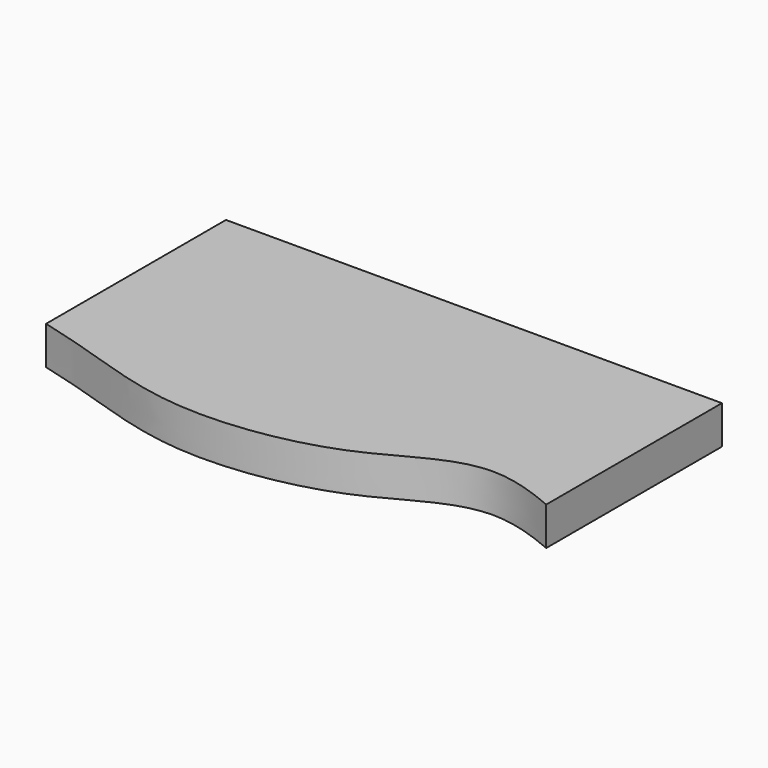
from build123d import *

# Parameters (mm, degrees)
F1_DEPTH = 10.4


with BuildPart() as f1:
    # F0 (on Top) → F1 (new body)
    with BuildSketch(Plane.XY):
        with BuildLine():
            Line((66.4654895667, 42.1201065164), (-68.1696608659, 42.1201065164))
            Line((-68.1696608659, 42.1201065164), (-68.1696608659, -18.9146162553))
            add(Edge.make_bspline(
                [(-68.1696608659, -18.9146162553), (-62.1553218982, -20.4632070983), (-49.0058058525, -24.3826323424), (-22.4658243192, -33.7597719285), (20.5863967698, -27.2223625794), (42.3506180777, -8.8015285529), (60.6282336315, -14.9547688521), (66.4654895667, -17.5115943508)],
                knots=[0.0743311664, 0.0743311664, 0.0743311664, 0.0743311664, 0.1900928182, 0.3795425183, 0.6028285228, 0.7961233901, 0.8973940603, 0.8973940603, 0.8973940603, 0.8973940603], degree=3))
            Line((66.4654895667, -17.5115943508), (66.4654895667, 42.1201065164))
        make_face()
    extrude(amount=F1_DEPTH)


solid = f1.part
